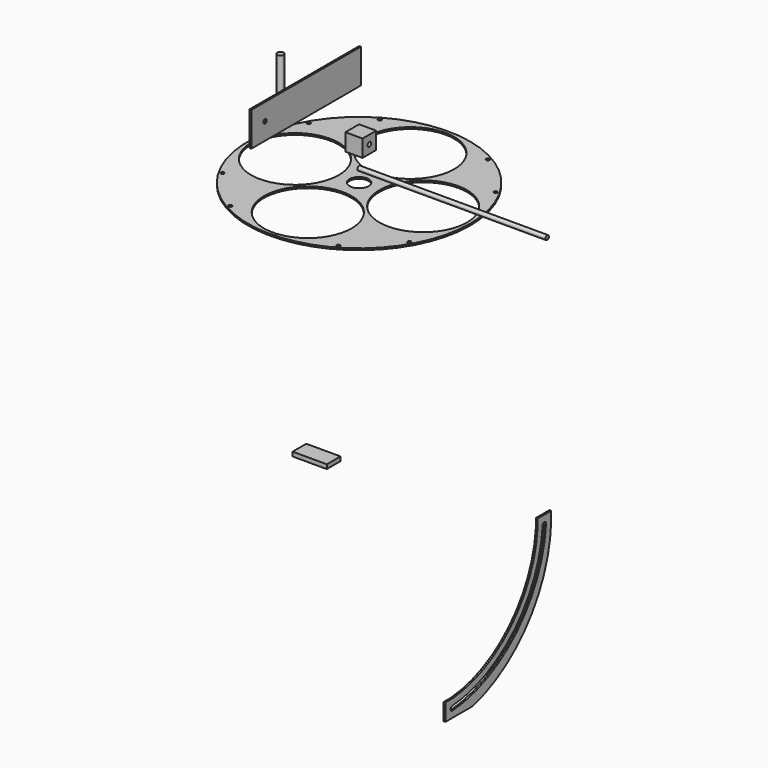
from build123d import *

# Parameters (mm, degrees)
F0_R      = 165.1
F0_R_2    = 2.5796875
F0_R_3    = 65.0875
F0_R_4    = 14.224
F1_DEPTH  = 2.54
F2_R      = 4.7625
F3_DEPTH  = 63.5
F4_W      = 203.2
F4_H      = 50.8
F4_R      = 3.175
F5_DEPTH  = 2.54
F6_R      = 3.175
F7_DEPTH  = 279.4
F8_W      = 25.4
F8_H      = 25.4
F8_R      = 3.175
F9_DEPTH  = 25.4
F11_DEPTH = 2.54
F12_W     = 25.4
F12_H     = 6.35
F13_DEPTH = 50.8


with BuildPart() as f1:
    # F0 (on Top) → F1 (new body)
    with BuildSketch(Plane.XY):
        Circle(F0_R)
        with Locations((-80.16875, -138.8563481793)):
            Circle(F0_R_2, mode=Mode.SUBTRACT)
        with Locations((-138.8563481793, -80.16875)):
            Circle(F0_R_2, mode=Mode.SUBTRACT)
        with Locations((80.16875, -138.8563481793)):
            Circle(F0_R_2, mode=Mode.SUBTRACT)
        with Locations((0, -95.25)):
            Circle(F0_R_3, mode=Mode.SUBTRACT)
        with Locations((138.8563481793, -80.16875)):
            Circle(F0_R_2, mode=Mode.SUBTRACT)
        with Locations((-95.25, 0)):
            Circle(F0_R_3, mode=Mode.SUBTRACT)
        with Locations((-138.8563481793, 80.16875)):
            Circle(F0_R_2, mode=Mode.SUBTRACT)
        with Locations((-80.16875, 138.8563481793)):
            Circle(F0_R_2, mode=Mode.SUBTRACT)
        Circle(F0_R_4, mode=Mode.SUBTRACT)
        with Locations((95.25, 0)):
            Circle(F0_R_3, mode=Mode.SUBTRACT)
        with Locations((138.8563481793, 80.16875)):
            Circle(F0_R_2, mode=Mode.SUBTRACT)
        with Locations((0, 95.25)):
            Circle(F0_R_3, mode=Mode.SUBTRACT)
        with Locations((80.16875, 138.8563481793)):
            Circle(F0_R_2, mode=Mode.SUBTRACT)
    extrude(amount=F1_DEPTH)


with BuildPart() as f3:
    # F2 (on face) → F3 (new body)
    with BuildSketch(Plane.XY.offset(2.54)):
        with Locations((-197.3412185907, 100.5694940686)):
            Circle(F2_R)
    extrude(amount=F3_DEPTH)


with BuildPart() as f5:
    # F4 (on Right) → F5 (new body)
    with BuildSketch(Plane.YZ):
        with Locations((-101.6, 155.6637153042)):
            Rectangle(F4_W, F4_H)
        with Locations((-177.8, 155.6637153042)):
            Circle(F4_R, mode=Mode.SUBTRACT)
    extrude(amount=F5_DEPTH)


with BuildPart() as f7:
    # F6 (on Right) → F7 (new body)
    with BuildSketch(Plane.YZ):
        with Locations((0, 21.3969157429)):
            Circle(F6_R)
    extrude(amount=F7_DEPTH)


with BuildPart() as f9:
    # F8 (on Right) → F9 (new body)
    with BuildSketch(Plane.YZ):
        with Locations((-12.7, 66.0523111046)):
            Rectangle(F8_W, F8_H)
        with Locations((-12.7, 66.0523111046)):
            Circle(F8_R, mode=Mode.SUBTRACT)
    extrude(amount=F9_DEPTH)


with BuildPart() as f11:
    # F10 (on Right) → F11 (new body)
    with BuildSketch(Plane.YZ):
        with BuildLine():
            Line((353.6422328556, -569.4647138109), (328.2422328556, -569.4647138109))
            Line((328.2422328556, -569.4647138109), (328.2422328556, -582.1647138109))
            ThreePointArc((328.2422328556, -582.1647138109), (278.4737192788, -690.7169542151), (169.9023374678, -740.4436964374))
            Line((169.9023374678, -740.4436964374), (157.2023374678, -740.4436964374))
            Line((157.2023374678, -740.4436964374), (157.2023374678, -765.8436964374))
            Line((157.2023374678, -765.8436964374), (208.2649841227, -765.8436964374))
            ThreePointArc((208.2649841227, -765.8436964374), (311.2485261911, -697.9818629004), (353.6422328556, -582.1647138109))
            Line((353.6422328556, -582.1647138109), (353.6422328556, -569.4647138109))
        make_face()
        with BuildLine():
            ThreePointArc((337.7464439992, -581.9457482937), (341.1328499819, -578.9972733454), (344.0813249301, -582.3836793281))
            ThreePointArc((344.0813249301, -582.3836793281), (289.6611152535, -701.9234915967), (170.121302985, -756.3437012733))
            ThreePointArc((170.121302985, -756.3437012733), (166.7348970023, -753.3952263251), (169.6833719505, -750.0088203424))
            ThreePointArc((169.6833719505, -750.0088203424), (285.170987193, -697.4333635361), (337.7464439992, -581.9457482937))
        make_face(mode=Mode.SUBTRACT)
    extrude(amount=F11_DEPTH)


with BuildPart() as f13:
    # F12 (on Right) → F13 (new body)
    with BuildSketch(Plane.YZ):
        with Locations((-110.764503479, -302.2948301549)):
            Rectangle(F12_W, F12_H)
    extrude(amount=F13_DEPTH)


solid = Compound([f1.part, f3.part, f5.part, f7.part, f9.part, f11.part, f13.part])
